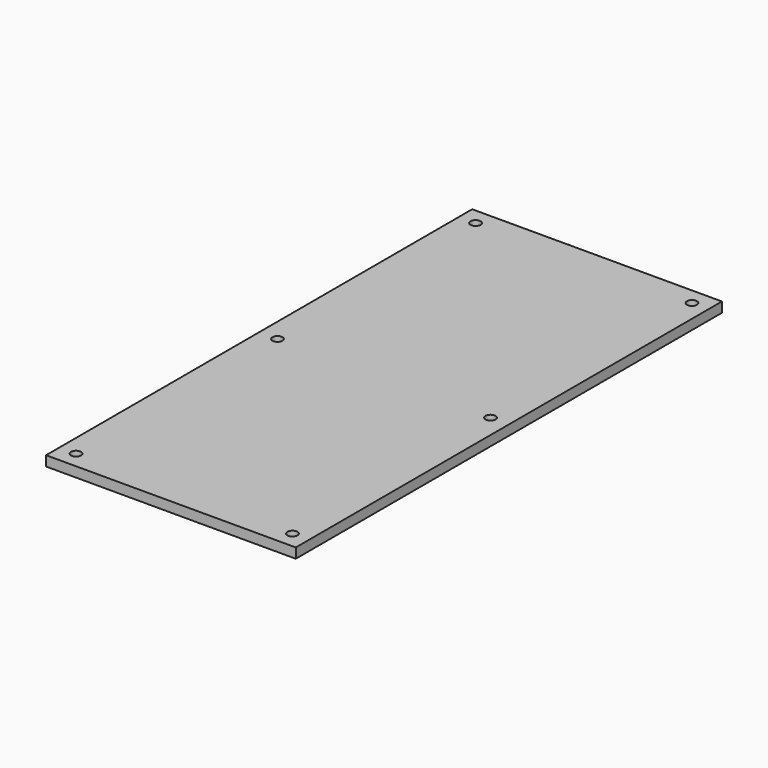
from build123d import *

# Parameters (mm, degrees)
F0_W     = 75
F0_H     = 160
F0_R     = 1.5
F1_DEPTH = 3


with BuildPart() as f1:
    # F0 (on Top) → F1 (new body)
    with BuildSketch(Plane.XY):
        Rectangle(F0_W, F0_H)
        with Locations((-32.5, -75)):
            Circle(F0_R, mode=Mode.SUBTRACT)
        with Locations((32.5, -75)):
            Circle(F0_R, mode=Mode.SUBTRACT)
        with Locations((-32, 0)):
            Circle(F0_R, mode=Mode.SUBTRACT)
        with Locations((-32.5, 75)):
            Circle(F0_R, mode=Mode.SUBTRACT)
        with Locations((32, 0)):
            Circle(F0_R, mode=Mode.SUBTRACT)
        with Locations((32.5, 75)):
            Circle(F0_R, mode=Mode.SUBTRACT)
    extrude(amount=F1_DEPTH)


solid = f1.part
